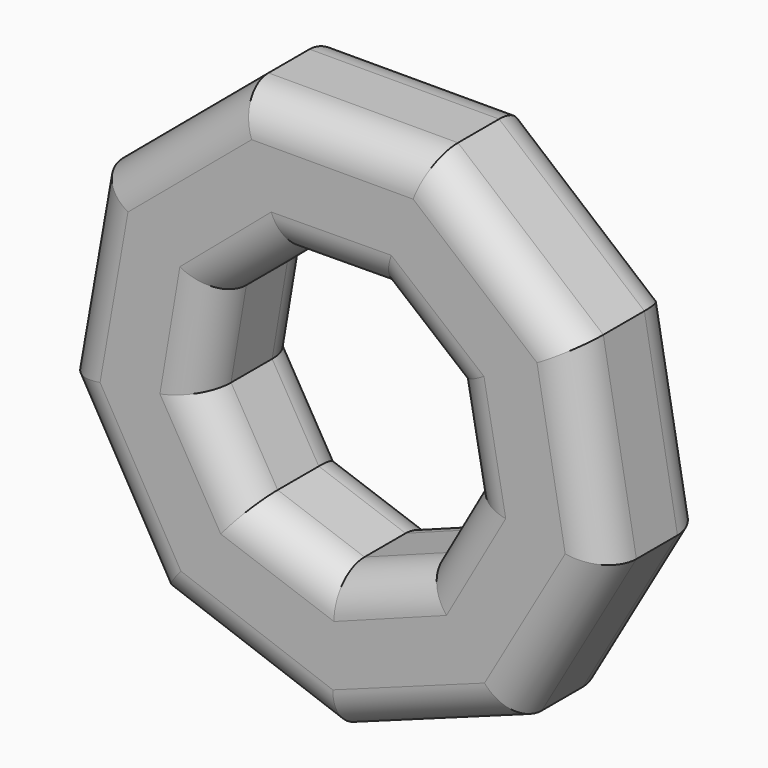
from build123d import *

# Parameters (mm, degrees)
F1_DEPTH = 25.4
F2_R     = 7.62
F3_R     = 7.62


with BuildPart() as f1:
    # F0 (on Front) → F1 (new body)
    with BuildSketch(Plane.XZ):
        Polygon((-53.984559, -9.564054), (-35.206915, -42.027096), (0.044435, -54.825192), (35.274993, -41.969972), (53.999991, -9.476535), (47.457792, 27.451078), (18.709565, 51.534026), (-18.793075, 51.503631), (-47.502227, 27.374115), align=None)
        Polygon((0.208474, -26.624716), (-16.954337, -20.52972), (-26.184025, -4.82864), (-23.161917, 13.131814), (-9.302091, 24.947747), (8.910288, 25.090351), (22.953443, 13.492902), (26.256428, -4.418027), (17.273738, -20.261711), align=None, mode=Mode.SUBTRACT)
    extrude(amount=F1_DEPTH)

    # F2
    f2_edges = [f1.edges().sort_by_distance(p)[0] for p in [
        (-0.041755, 0, 51.518829),
        (-33.147651, 0, 39.438873),
        (-50.743393, 0, 8.90503),
        (-44.595737, 0, -25.795575),
        (-17.58124, 0, -48.426144),
        (17.659714, 0, -48.397582),
        (44.637492, 0, -25.723254),
        (50.728891, 0, 8.987271),
        (33.083679, 0, 39.492552),
        (-33.147651, -25.4, 39.438873),
        (-0.041755, -25.4, 51.518829),
        (33.083679, -25.4, 39.492552),
        (50.728891, -25.4, 8.987271),
        (44.637492, -25.4, -25.723254),
        (17.659714, -25.4, -48.397582),
        (-17.58124, -25.4, -48.426144),
        (-44.595737, -25.4, -25.795575),
        (-50.743393, -25.4, 8.90503),
    ]]
    fillet(f2_edges, radius=F2_R)

    # F3
    f3_edges = [f1.edges().sort_by_distance(p)[0] for p in [
        (15.931865, -25.4, 19.291626),
        (24.604935, -25.4, 4.537438),
        (21.765083, -25.4, -12.339869),
        (8.741106, -25.4, -23.443213),
        (-8.372932, -25.4, -23.577218),
        (-21.569181, -25.4, -12.67918),
        (-24.672971, -25.4, 4.151587),
        (-16.232004, -25.4, 19.03978),
        (-0.195901, -25.4, 25.019049),
        (-8.372932, 0, -23.577218),
        (8.741106, 0, -23.443213),
        (21.765083, 0, -12.339869),
        (24.604935, 0, 4.537438),
        (15.931865, 0, 19.291626),
        (-0.195901, 0, 25.019049),
        (-16.232004, 0, 19.03978),
        (-24.672971, 0, 4.151587),
        (-21.569181, 0, -12.67918),
    ]]
    fillet(f3_edges, radius=F3_R)


solid = f1.part
